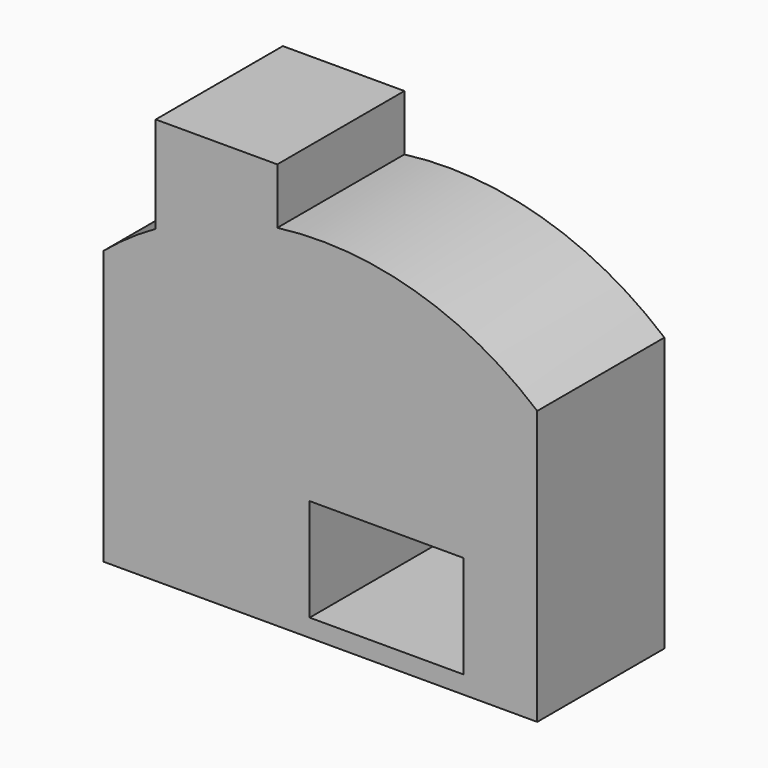
from build123d import *

# Parameters (mm, degrees)
F0_W     = 24.6042311192
F0_H     = 16.391252639
F1_DEPTH = 25.4


with BuildPart() as f1:
    # F0 (on Front) → F1 (new body)
    with BuildSketch(Plane.XZ):
        with BuildLine():
            Line((27.749132365, 0), (69.2981160323, 0))
            ThreePointArc((69.2981160323, 0), (49.8168910408, 10.5124621895), (27.749132365, 12.2571729058))
            Line((27.749132365, 12.2571729058), (27.749132365, 0))
        make_face()
        Polygon((69.2981160323, -43.7511354685), (69.2981160323, 0), (27.749132365, 0), (8.3247395232, 0), (0, 0), (0, -43.7511354685), align=None)
        with Locations((45.2310889959, -32.7073603432)):
            Rectangle(F0_W, F0_H, mode=Mode.SUBTRACT)
        with BuildLine():
            Line((27.749132365, 0), (27.749132365, 12.2571729058))
            ThreePointArc((27.749132365, 12.2571729058), (17.7255654423, 9.9616074912), (8.3247395232, 5.7943558229))
            Line((8.3247395232, 5.7943558229), (8.3247395232, 0))
            Line((8.3247395232, 0), (27.749132365, 0))
        make_face()
        with BuildLine():
            ThreePointArc((8.3247395232, 5.7943558229), (17.7255654423, 9.9616074912), (27.749132365, 12.2571729058))
            Line((27.749132365, 12.2571729058), (27.749132365, 21.1818367243))
            Line((27.749132365, 21.1818367243), (8.3247395232, 21.1818367243))
            Line((8.3247395232, 21.1818367243), (8.3247395232, 5.7943558229))
        make_face()
        with BuildLine():
            Line((8.3247395232, 0), (8.3247395232, 5.7943558229))
            ThreePointArc((8.3247395232, 5.7943558229), (4.0250184299, 3.0945102974), (0, 0))
            Line((0, 0), (8.3247395232, 0))
        make_face()
    extrude(amount=F1_DEPTH)


solid = f1.part
